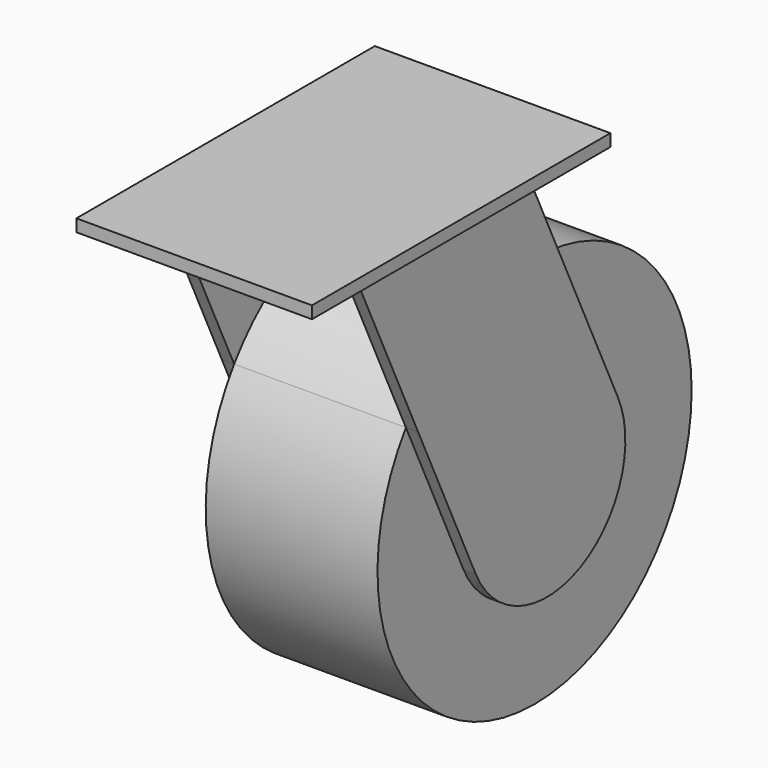
from build123d import *

# Parameters (mm, degrees)
F0_W     = 60.96
F0_H     = 96.52
F1_DEPTH = 3.175
F3_DEPTH = 25.4
F4_W     = 44.45
F4_H     = 101.6
F5_DEPTH = 107.713117
F6_DEPTH = 22.225


with BuildPart() as f1:
    # F0 (on Top) → F1 (new body)
    with BuildSketch(Plane.XY):
        Rectangle(F0_W, F0_H)
    extrude(amount=-F1_DEPTH)

    # F2 (on Right) → F3 (join, symmetric)
    with BuildSketch(Plane.YZ):
        with BuildLine():
            Line((-28.025799, -3.175), (-7.560807, -47.062317))
            ThreePointArc((-7.560807, -47.062317), (12.583109, -30.159564), (38.479628, -25.593309))
            Line((38.479628, -25.593309), (28.025799, -3.175))
            Line((28.025799, -3.175), (-28.025799, -3.175))
        make_face()
        with BuildLine():
            ThreePointArc((38.479628, -25.593309), (12.583109, -30.159564), (-7.560807, -47.062317))
            Line((-7.560807, -47.062317), (11.031899, -86.934504))
            ThreePointArc((11.031899, -86.934504), (44.786621, -99.220218), (57.072335, -65.465496))
            Line((57.072335, -65.465496), (38.479628, -25.593309))
        make_face()
    extrude(amount=F3_DEPTH, both=True)

    # F4 (on face) → F5 (cut, through all)
    with BuildSketch(Plane.XZ.offset(48.26)):
        with Locations((0, -60.325)):
            Rectangle(F4_W, F4_H)
    extrude(amount=-F5_DEPTH, mode=Mode.SUBTRACT)


with BuildPart() as f6:
    # F2 (on Right) → F6 (new body, symmetric)
    with BuildSketch(Plane.YZ):
        with BuildLine():
            ThreePointArc((-7.560807, -47.062317), (-11.008034, -99.65683), (34.052117, -127))
            ThreePointArc((34.052117, -127), (69.973141, -112.121024), (84.852117, -76.2))
            ThreePointArc((84.852117, -76.2), (71.505805, -41.880017), (38.479628, -25.593309))
            Line((38.479628, -25.593309), (57.072335, -65.465496))
            ThreePointArc((57.072335, -65.465496), (44.786621, -99.220218), (11.031899, -86.934504))
            Line((11.031899, -86.934504), (-7.560807, -47.062317))
        make_face()
        with BuildLine():
            ThreePointArc((38.479628, -25.593309), (12.583109, -30.159564), (-7.560807, -47.062317))
            Line((-7.560807, -47.062317), (11.031899, -86.934504))
            ThreePointArc((11.031899, -86.934504), (44.786621, -99.220218), (57.072335, -65.465496))
            Line((57.072335, -65.465496), (38.479628, -25.593309))
        make_face()
    extrude(amount=F6_DEPTH, both=True)


solid = Compound([f1.part, f6.part])
